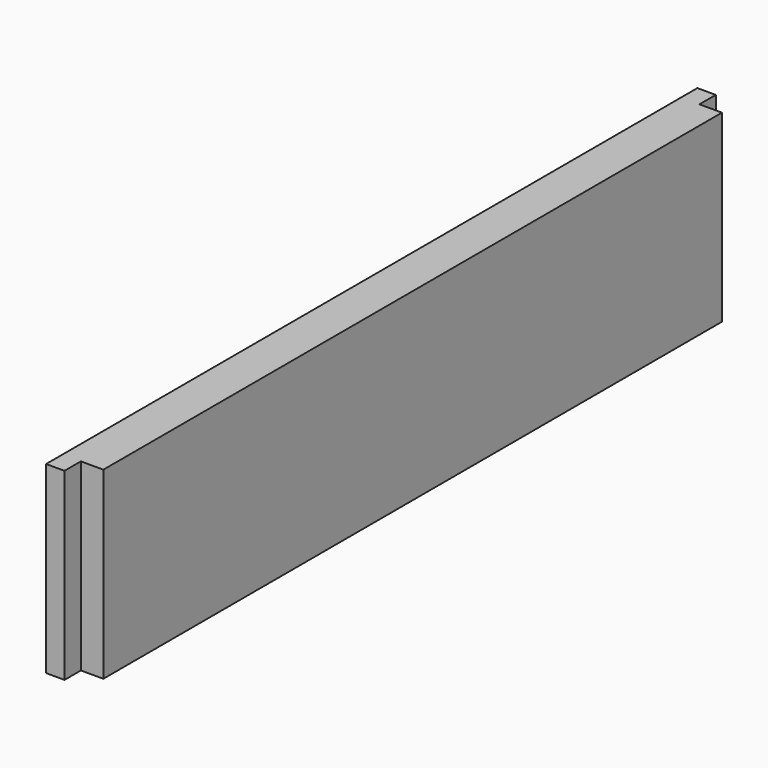
from build123d import *

# Parameters (mm, degrees)
BOX021_W     = 10
BOX021_H     = 10
BOX021_DEPTH = 31
BOX020_W     = 10
BOX020_H     = 10
BOX020_DEPTH = 30
BOX019_W     = 10
BOX019_H     = 10
BOX019_DEPTH = 25
BOX018_W     = 10
BOX018_H     = 10
BOX018_DEPTH = 25
BOX010_W     = 2
BOX010_H     = 80
BOX010_DEPTH = 18
BOX011_W     = 4
BOX011_H     = 76
BOX011_DEPTH = 18


with BuildPart() as obj1:
    # Box021 → Box021 (new body)
    with BuildSketch(Plane(origin=(110, 80.8, 0), x_dir=(1, 0, 0), z_dir=(0, 0, 1))):
        with Locations((5, 5)):
            Rectangle(BOX021_W, BOX021_H)
    extrude(amount=BOX021_DEPTH)


with BuildPart() as obj2:
    # Box020 → Box020 (new body)
    with BuildSketch(Plane(origin=(109, -8.8, 0), x_dir=(1, 0, 0), z_dir=(0, 0, 1))):
        with Locations((5, 5)):
            Rectangle(BOX020_W, BOX020_H)
    extrude(amount=BOX020_DEPTH)


with BuildPart() as obj3:
    # Box019 → Box019 (new body)
    with BuildSketch(Plane(origin=(114.8, 78.8, 0), x_dir=(1, 0, 0), z_dir=(0, 0, 1))):
        with Locations((5, 5)):
            Rectangle(BOX019_W, BOX019_H)
    extrude(amount=BOX019_DEPTH)


with BuildPart() as obj4:
    # Box018 → Box018 (new body)
    with BuildSketch(Plane(origin=(114.8, -6.8, 0), x_dir=(1, 0, 0), z_dir=(0, 0, 1))):
        with Locations((5, 5)):
            Rectangle(BOX018_W, BOX018_H)
    extrude(amount=BOX018_DEPTH)


with BuildPart() as obj5:
    # Box010 → Box010 (new body)
    with BuildSketch(Plane(origin=(113, 1, 23), x_dir=(1, 0, 0), z_dir=(0, 0, 1))):
        with Locations((1, 40)):
            Rectangle(BOX010_W, BOX010_H)
    extrude(amount=BOX010_DEPTH)


with BuildPart() as front:
    # Box011 → Box011 (new body)
    with BuildSketch(Plane(origin=(113, 3, 23), x_dir=(1, 0, 0), z_dir=(0, 0, 1))):
        with Locations((2, 38)):
            Rectangle(BOX011_W, BOX011_H)
    extrude(amount=BOX011_DEPTH)

    # Fusion010: union obj5
    add(obj5.part)


with BuildPart() as front_1:
    # Fusion010 placement: moved
    add(front.part.moved(Location((0, 0, -19))))

    # Cut013: cut obj4
    add(obj4.part, mode=Mode.SUBTRACT)

    # Cut014: cut obj3
    add(obj3.part, mode=Mode.SUBTRACT)

    # Cut015: cut obj2
    add(obj2.part, mode=Mode.SUBTRACT)

    # Cut016: cut obj1
    add(obj1.part, mode=Mode.SUBTRACT)


solid = front_1.part
